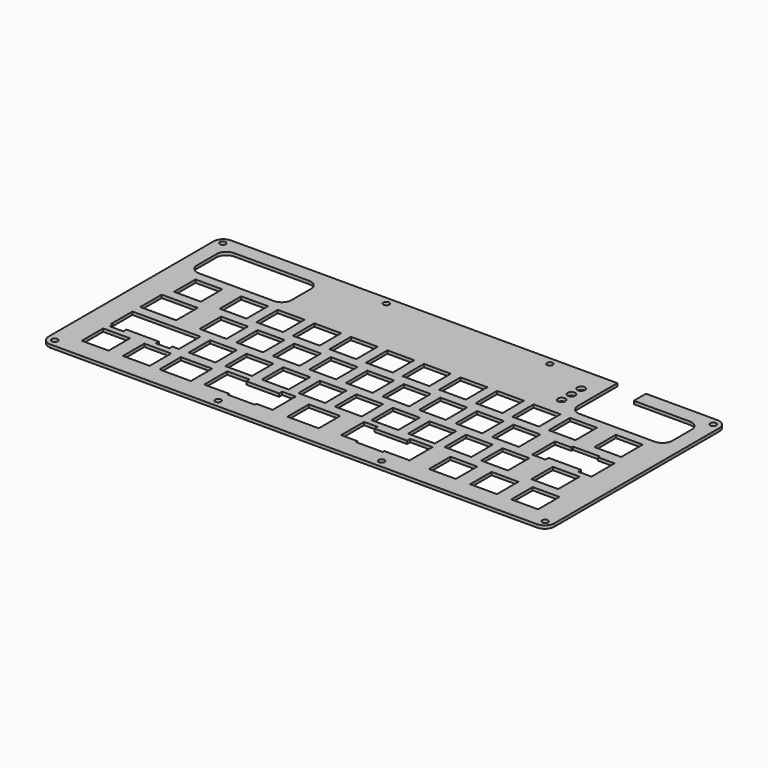
from build123d import *

# Parameters (mm, degrees)
SKETCH_W        = 263.525
SKETCH_H        = 117.475
PAD_DEPTH       = 1.5875
SKETCH002_W     = 13.97
SKETCH002_H     = 13.97
SKETCH002_W_2   = 35.40125
SKETCH002_W_3   = 18.7325
SKETCH002_W_4   = 16.35125
POCKET_DEPTH    = 1.5885
SKETCH003_W     = 7
SKETCH003_H     = 14.97
POCKET001_DEPTH = 1.5885
SKETCH004_W     = 49.2125
SKETCH004_H     = 22.86
POCKET002_DEPTH = 1.5885
SKETCH001_R     = 1.5494
HOLE_DEPTH      = 1.5885
SKETCH005_R     = 2
POCKET003_DEPTH = 1.5885
FILLET_R        = 5.08


with BuildPart() as part:
    # Sketch → Pad (new body)
    with BuildSketch(Plane.XY):
        Rectangle(SKETCH_W, SKETCH_H)
    extrude(amount=PAD_DEPTH)

    # Sketch002 (on Face6 of Pad) → Pocket (cut, through all)
    with BuildSketch(Plane.XY.offset(1.5875)):
        with Locations((-85.725, 15.875)):
            Rectangle(SKETCH002_W, SKETCH002_H)
        with Locations((-80.9625, -3.175)):
            Rectangle(SKETCH002_W, SKETCH002_H)
        with Locations((-71.4375, -22.225)):
            Rectangle(SKETCH002_W, SKETCH002_H)
        with Locations((-66.675, 15.875)):
            Rectangle(SKETCH002_W, SKETCH002_H)
        with Locations((-61.9125, -3.175)):
            Rectangle(SKETCH002_W, SKETCH002_H)
        with Locations((-52.3875, -22.225)):
            Rectangle(SKETCH002_W, SKETCH002_H)
        with Locations((-47.625, 15.875)):
            Rectangle(SKETCH002_W, SKETCH002_H)
        with Locations((-42.8625, -3.175)):
            Rectangle(SKETCH002_W, SKETCH002_H)
        with Locations((-33.3375, -22.225)):
            Rectangle(SKETCH002_W, SKETCH002_H)
        with Locations((-28.575, 15.875)):
            Rectangle(SKETCH002_W, SKETCH002_H)
        with Locations((-23.8125, -3.175)):
            Rectangle(SKETCH002_W, SKETCH002_H)
        with Locations((-14.2875, -22.225)):
            Rectangle(SKETCH002_W, SKETCH002_H)
        with Locations((-9.525, 15.875)):
            Rectangle(SKETCH002_W, SKETCH002_H)
        with Locations((-4.7625, -3.175)):
            Rectangle(SKETCH002_W, SKETCH002_H)
        with Locations((4.7625, -22.225)):
            Rectangle(SKETCH002_W, SKETCH002_H)
        with Locations((9.525, 15.875)):
            Rectangle(SKETCH002_W, SKETCH002_H)
        with Locations((14.2875, -3.175)):
            Rectangle(SKETCH002_W, SKETCH002_H)
        with Locations((23.8125, -22.225)):
            Rectangle(SKETCH002_W, SKETCH002_H)
        with Locations((28.575, 15.875)):
            Rectangle(SKETCH002_W, SKETCH002_H)
        with Locations((33.3375, -3.175)):
            Rectangle(SKETCH002_W, SKETCH002_H)
        with Locations((42.8625, -22.225)):
            Rectangle(SKETCH002_W, SKETCH002_H)
        with Locations((47.625, 15.875)):
            Rectangle(SKETCH002_W, SKETCH002_H)
        with Locations((52.3875, -3.175)):
            Rectangle(SKETCH002_W, SKETCH002_H)
        with Locations((61.9125, -22.225)):
            Rectangle(SKETCH002_W, SKETCH002_H)
        with Locations((66.675, 15.875)):
            Rectangle(SKETCH002_W, SKETCH002_H)
        with Locations((71.4375, -3.175)):
            Rectangle(SKETCH002_W, SKETCH002_H)
        with Locations((80.9625, -22.225)):
            Rectangle(SKETCH002_W, SKETCH002_H)
        with Locations((85.725, 15.875)):
            Rectangle(SKETCH002_W, SKETCH002_H)
        with Locations((109.5375, 15.875)):
            Rectangle(SKETCH002_W, SKETCH002_H)
        with Locations((102.39375, -3.175)):
            Rectangle(SKETCH002_W, SKETCH002_H)
        with Locations((107.15625, -22.225)):
            Rectangle(SKETCH002_W, SKETCH002_H)
        with Locations((-109.5375, 15.875)):
            Rectangle(SKETCH002_W, SKETCH002_H)
        with Locations((-101.203125, -22.225)):
            Rectangle(SKETCH002_W_2, SKETCH002_H)
        with Locations((-109.5375, -3.175)):
            Rectangle(SKETCH002_W_3, SKETCH002_H)
        with Locations((-111.91875, -41.275)):
            Rectangle(SKETCH002_W, SKETCH002_H)
        with Locations((-90.4875, -41.275)):
            Rectangle(SKETCH002_W, SKETCH002_H)
        with Locations((-70.246875, -41.275)):
            Rectangle(SKETCH002_W_4, SKETCH002_H)
        with Locations((-35.71875, -41.275)):
            Rectangle(SKETCH002_W, SKETCH002_H)
        with Locations((-3.571875, -41.275)):
            Rectangle(SKETCH002_W_4, SKETCH002_H)
        with Locations((30.95625, -41.275)):
            Rectangle(SKETCH002_W, SKETCH002_H)
        with Locations((69.05625, -41.275)):
            Rectangle(SKETCH002_W, SKETCH002_H)
        with Locations((90.4875, -41.275)):
            Rectangle(SKETCH002_W, SKETCH002_H)
        with Locations((111.91875, -41.275)):
            Rectangle(SKETCH002_W, SKETCH002_H)
    extrude(amount=-POCKET_DEPTH, mode=Mode.SUBTRACT)

    # Sketch003 (on Face5 of Pocket) → Pocket001 (cut, through all)
    with BuildSketch(Plane.XY.offset(1.5875)):
        Polygon((86.89375, -12.16), (86.89375, 2.81), (117.89375, 2.81), (117.89375, -12.16), (110.89375, -12.16), (110.89375, -10.16), (93.89375, -10.16), (93.89375, -12.16), align=None)
        with Locations((-114.39375, -23.725)):
            Rectangle(SKETCH003_W, SKETCH003_H)
        with Locations((-90.39375, -23.725)):
            Rectangle(SKETCH003_W, SKETCH003_H)
        Polygon((-55.88125, -32.29), (-55.88125, -47.26), (-20.21875, -47.26), (-20.21875, -32.29), (-27.21875, -32.29), (-27.21875, -34.29), (-44.21875, -34.29), (-44.21875, -32.29), align=None)
        Polygon((15.45625, -32.29), (15.45625, -47.26), (51.11875, -47.26), (51.11875, -32.29), (39.45625, -32.29), (39.45625, -34.29), (22.45625, -34.29), (22.45625, -32.29), align=None)
    extrude(amount=-POCKET001_DEPTH, mode=Mode.SUBTRACT)

    # Sketch004 (on Face5 of Pocket001) → Pocket002 (cut, through all)
    with BuildSketch(Plane.XY.offset(1.5875)):
        with Locations((-99.21875, 39.37)):
            Rectangle(SKETCH004_W, SKETCH004_H)
        Polygon((123.825, 50.8), (123.825, 27.94), (74.6125, 27.94), (74.6125, 50.8), (74.6125, 58.7375), (89.535, 58.7375), (89.535, 50.8), align=None)
    extrude(amount=-POCKET002_DEPTH, mode=Mode.SUBTRACT)

    # Sketch001 (on Face6 of Pad) → Hole (cut, through all)
    with BuildSketch(Plane.XY.offset(1.5875)):
        with Locations((-42.597917, 54.76875)):
            Circle(SKETCH001_R)
        with Locations((42.597917, 54.76875)):
            Circle(SKETCH001_R)
        with Locations((42.597917, -54.76875)):
            Circle(SKETCH001_R)
        with Locations((-42.597917, -54.76875)):
            Circle(SKETCH001_R)
        with Locations((-127.79375, -54.76875)):
            Circle(SKETCH001_R)
        with Locations((-127.79375, 54.76875)):
            Circle(SKETCH001_R)
        with Locations((127.79375, 54.76875)):
            Circle(SKETCH001_R)
        with Locations((127.79375, -54.76875)):
            Circle(SKETCH001_R)
    extrude(amount=-HOLE_DEPTH, mode=Mode.SUBTRACT)

    # Sketch005 (on Face5 of Pocket002) → Pocket003 (cut, through all)
    with BuildSketch(Plane.XY.offset(1.5875)):
        with Locations((66.167, 33.02)):
            Circle(SKETCH005_R)
        with Locations((66.167, 39.37)):
            Circle(SKETCH005_R)
        with Locations((66.167, 45.72)):
            Circle(SKETCH005_R)
    extrude(amount=-POCKET003_DEPTH, mode=Mode.SUBTRACT)

    # Fillet
    fillet_edges = [part.edges().sort_by_distance(p)[0] for p in [
        (-74.6125, 27.94, 0.79375),
        (-131.7625, 58.7375, 0.79375),
        (-123.825, 50.8, 0.79375),
        (-123.825, 27.94, 0.79375),
        (-74.6125, 50.8, 0.79375),
        (-131.7625, -58.7375, 0.79375),
        (131.7625, -58.7375, 0.79375),
        (131.7625, 58.7375, 0.79375),
        (74.6125, 27.94, 0.79375),
        (123.825, 27.94, 0.79375),
        (123.825, 50.8, 0.79375),
    ]]
    fillet(fillet_edges, radius=FILLET_R)


solid = part.part
